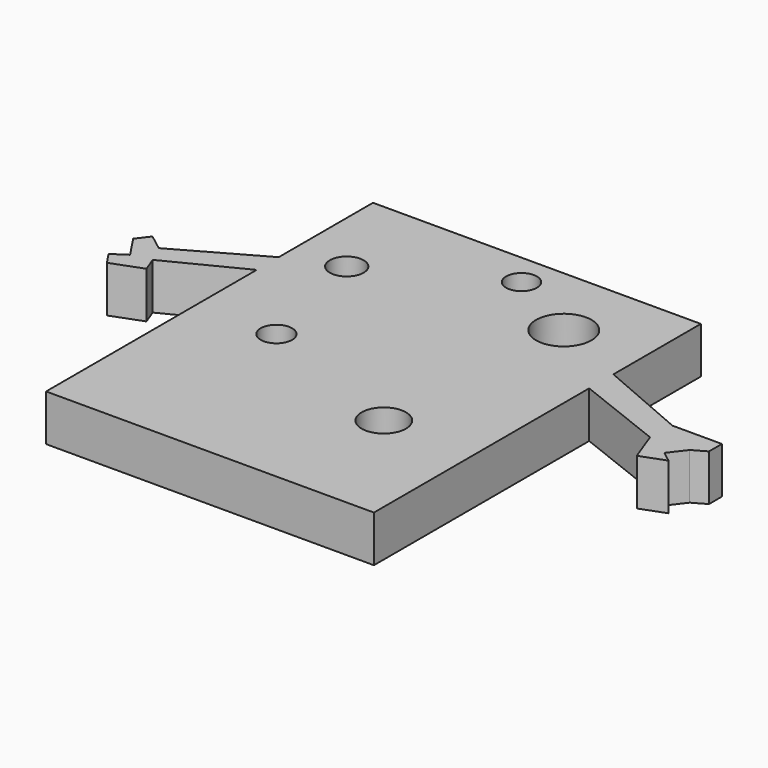
from build123d import *

# Parameters (mm, degrees)
F0_R     = 4.306996
F0_R_2   = 6.068742
F0_R_3   = 4.632643
F0_R_4   = 4.213633
F0_R_5   = 7.585926
F1_DEPTH = 12.7


with BuildPart() as f1:
    # F0 (on Top) → F1 (new body)
    with BuildSketch(Plane.XY):
        Polygon((42.021509, 45.013756), (-47.745805, 45.013756), (-47.745805, 12.749561), (-47.745805, 5.203902), (-47.745805, -66.870145), (42.021509, -66.870145), (42.021509, 6.79579), (42.021509, 15.091317), align=None)
        with Locations((-25.889417, -15.351512)):
            Circle(F0_R, mode=Mode.SUBTRACT)
        with Locations((17.042782, -32.264195)):
            Circle(F0_R_2, mode=Mode.SUBTRACT)
        with Locations((-33.695269, 18.473854)):
            Circle(F0_R_3, mode=Mode.SUBTRACT)
        with Locations((0, 36.167122)):
            Circle(F0_R_4, mode=Mode.SUBTRACT)
        with Locations((20.945705, 24.458343)):
            Circle(F0_R_5, mode=Mode.SUBTRACT)
        Polygon((-47.745805, 5.203902), (-47.745805, 12.749561), (-70.382781, 0), (-74.806102, 3.382537), (-77.392745, 0), (-73.244929, -6.244683), (-77.091641, -8.799729), (-74.813173, -12.230043), (-66.479854, -9.10683), (-67.997565, -5.057293), align=None)
        Polygon((66.740051, 4.423317), (42.021509, 15.091317), (42.021509, 6.79579), (66.344172, -2.770602), (69.478922, -11.232767), (76.180932, -8.750055), (73.244929, -6.504878), (76.627463, -2.081561), (80.270201, 0), (80.270201, 4.423317), align=None)
    extrude(amount=F1_DEPTH)


solid = f1.part
